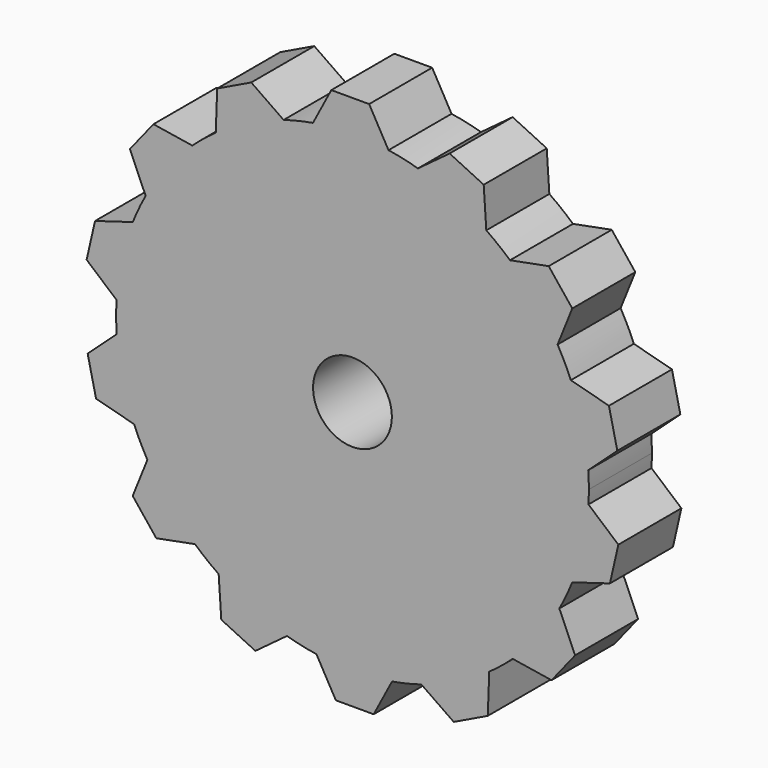
from build123d import *

# Parameters (mm, degrees)
F0_R     = 3.175
F1_DEPTH = 6.35


with BuildPart() as f1:
    # F0 (on Front) → F1 (new body)
    with BuildSketch(Plane.XZ):
        with BuildLine():
            ThreePointArc((19.019852, -1.071327), (19.042461, -0.535875), (19.05, 0))
            ThreePointArc((19.05, 0), (19.037896, 0.678973), (19.001601, 1.357083))
            ThreePointArc((19.001601, 1.357083), (18.539994, 4.378484), (17.601125, 7.287173))
            ThreePointArc((17.601125, 7.287173), (17.100853, 8.394243), (16.531034, 9.467175))
            ThreePointArc((16.531034, 9.467175), (14.804204, 11.98908), (12.69628, 14.202358))
            ThreePointArc((12.69628, 14.202358), (11.765211, 14.982734), (10.786294, 15.702177))
            ThreePointArc((10.786294, 15.702177), (8.136261, 17.225091), (5.276781, 18.304592))
            ThreePointArc((5.276781, 18.304592), (4.099324, 18.60371), (2.905195, 18.82717))
            ThreePointArc((2.905195, 18.82717), (-0.14317, 19.049462), (-3.187849, 18.781377))
            ThreePointArc((-3.187849, 18.781377), (-4.378484, 18.539994), (-5.551312, 18.223211))
            ThreePointArc((-5.551312, 18.223211), (-8.394243, 17.100853), (-11.021087, 15.53828))
            ThreePointArc((-11.021087, 15.53828), (-11.98908, 14.804204), (-12.908315, 14.009922))
            ThreePointArc((-12.908315, 14.009922), (-14.982734, 11.765211), (-16.671463, 9.217636))
            ThreePointArc((-16.671463, 9.217636), (-17.225091, 8.136261), (-17.708667, 7.021796))
            ThreePointArc((-17.708667, 7.021796), (-18.60371, 4.099324), (-19.019852, 1.071327))
            ThreePointArc((-19.019852, 1.071327), (-19.049462, -0.14317), (-19.001601, -1.357083))
            ThreePointArc((-19.001601, -1.357083), (-18.539994, -4.378484), (-17.601125, -7.287173))
            ThreePointArc((-17.601125, -7.287173), (-17.100853, -8.394243), (-16.531034, -9.467175))
            ThreePointArc((-16.531034, -9.467175), (-14.804204, -11.98908), (-12.69628, -14.202358))
            ThreePointArc((-12.69628, -14.202358), (-11.765211, -14.982734), (-10.786294, -15.702177))
            ThreePointArc((-10.786294, -15.702177), (-8.136261, -17.225091), (-5.276781, -18.304592))
            ThreePointArc((-5.276781, -18.304592), (-4.099324, -18.60371), (-2.905195, -18.82717))
            ThreePointArc((-2.905195, -18.82717), (0.14317, -19.049462), (3.187849, -18.781377))
            ThreePointArc((3.187849, -18.781377), (4.378484, -18.539994), (5.551312, -18.223211))
            ThreePointArc((5.551312, -18.223211), (8.394243, -17.100853), (11.021087, -15.53828))
            ThreePointArc((11.021087, -15.53828), (11.98908, -14.804204), (12.908315, -14.009922))
            ThreePointArc((12.908315, -14.009922), (14.982734, -11.765211), (16.671463, -9.217636))
            ThreePointArc((16.671463, -9.217636), (17.225091, -8.136261), (17.708667, -7.021796))
            ThreePointArc((17.708667, -7.021796), (18.60371, -4.099324), (19.019852, -1.071327))
        make_face()
        Circle(F0_R, mode=Mode.SUBTRACT)
        with BuildLine():
            ThreePointArc((17.601125, 7.287173), (18.539994, 4.378484), (19.001601, 1.357083))
            Line((19.001601, 1.357083), (21.347045, 3.497063))
            Line((21.347045, 3.497063), (20.668801, 6.468644))
            Line((20.668801, 6.468644), (17.601125, 7.287173))
        make_face()
        with BuildLine():
            Line((21.428586, -3.13981), (19.019852, -1.071327))
            ThreePointArc((19.019852, -1.071327), (18.60371, -4.099324), (17.708667, -7.021796))
            Line((17.708667, -7.021796), (20.750342, -6.11139))
            Line((20.750342, -6.11139), (21.428586, -3.13981))
        make_face()
        with BuildLine():
            ThreePointArc((12.69628, 14.202358), (14.804204, 11.98908), (16.531034, 9.467175))
            Line((16.531034, 9.467175), (17.715704, 12.412881))
            Line((17.715704, 12.412881), (15.815307, 14.795903))
            Line((15.815307, 14.795903), (12.69628, 14.202358))
        make_face()
        with BuildLine():
            Line((17.944176, -12.126386), (16.671463, -9.217636))
            ThreePointArc((16.671463, -9.217636), (14.982734, -11.765211), (12.908315, -14.009922))
            Line((12.908315, -14.009922), (16.043779, -14.509409))
            Line((16.043779, -14.509409), (17.944176, -12.126386))
        make_face()
        with BuildLine():
            ThreePointArc((5.276781, 18.304592), (8.136261, 17.225091), (10.786294, 15.702177))
            Line((10.786294, 15.702177), (10.575551, 18.870175))
            Line((10.575551, 18.870175), (7.829398, 20.192653))
            Line((7.829398, 20.192653), (5.276781, 18.304592))
        make_face()
        with BuildLine():
            Line((10.905702, -18.711183), (11.021087, -15.53828))
            ThreePointArc((11.021087, -15.53828), (8.394243, -17.100853), (5.551312, -18.223211))
            Line((5.551312, -18.223211), (8.159549, -20.03366))
            Line((8.159549, -20.03366), (10.905702, -18.711183))
        make_face()
        with BuildLine():
            ThreePointArc((-3.187849, 18.781377), (-0.14317, 19.049462), (2.905195, 18.82717))
            Line((2.905195, 18.82717), (1.34078, 21.59))
            Line((1.34078, 21.59), (-1.70722, 21.59))
            Line((-1.70722, 21.59), (-3.187849, 18.781377))
        make_face()
        with BuildLine():
            Line((1.70722, -21.59), (3.187849, -18.781377))
            ThreePointArc((3.187849, -18.781377), (0.14317, -19.049462), (-2.905195, -18.82717))
            Line((-2.905195, -18.82717), (-1.34078, -21.59))
            Line((-1.34078, -21.59), (1.70722, -21.59))
        make_face()
        with BuildLine():
            ThreePointArc((-11.021087, 15.53828), (-8.394243, 17.100853), (-5.551312, 18.223211))
            Line((-5.551312, 18.223211), (-8.159549, 20.03366))
            Line((-8.159549, 20.03366), (-10.905702, 18.711183))
            Line((-10.905702, 18.711183), (-11.021087, 15.53828))
        make_face()
        with BuildLine():
            Line((-7.829398, -20.192653), (-5.276781, -18.304592))
            ThreePointArc((-5.276781, -18.304592), (-8.136261, -17.225091), (-10.786294, -15.702177))
            Line((-10.786294, -15.702177), (-10.575551, -18.870175))
            Line((-10.575551, -18.870175), (-7.829398, -20.192653))
        make_face()
        with BuildLine():
            ThreePointArc((-16.671463, 9.217636), (-14.982734, 11.765211), (-12.908315, 14.009922))
            Line((-12.908315, 14.009922), (-16.043779, 14.509409))
            Line((-16.043779, 14.509409), (-17.944176, 12.126386))
            Line((-17.944176, 12.126386), (-16.671463, 9.217636))
        make_face()
        with BuildLine():
            Line((-15.815307, -14.795903), (-12.69628, -14.202358))
            ThreePointArc((-12.69628, -14.202358), (-14.804204, -11.98908), (-16.531034, -9.467175))
            Line((-16.531034, -9.467175), (-17.715704, -12.412881))
            Line((-17.715704, -12.412881), (-15.815307, -14.795903))
        make_face()
        with BuildLine():
            ThreePointArc((-19.019852, 1.071327), (-18.60371, 4.099324), (-17.708667, 7.021796))
            Line((-17.708667, 7.021796), (-20.750342, 6.11139))
            Line((-20.750342, 6.11139), (-21.428586, 3.13981))
            Line((-21.428586, 3.13981), (-19.019852, 1.071327))
        make_face()
        with BuildLine():
            Line((-20.668801, -6.468644), (-17.601125, -7.287173))
            ThreePointArc((-17.601125, -7.287173), (-18.539994, -4.378484), (-19.001601, -1.357083))
            Line((-19.001601, -1.357083), (-21.347045, -3.497063))
            Line((-21.347045, -3.497063), (-20.668801, -6.468644))
        make_face()
    extrude(amount=F1_DEPTH)


solid = f1.part
